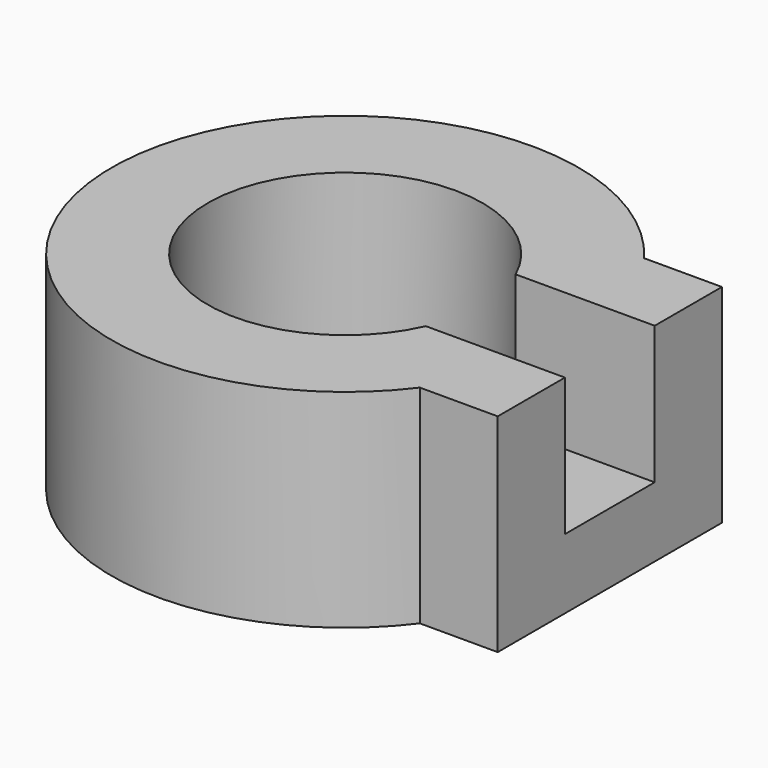
from build123d import *

# Parameters (mm, degrees)
SKETCH014_R             = 1.5
POCKET_DEPTH            = 271.834281
POLARPATTERN_COUNT      = 6
PAD_DEPTH               = 40
SKETCH016_W             = 21.623292
SKETCH016_H             = 27.433631
POCKET001_DEPTH         = 35
BODY003_PLACEMENT_ANGLE = 90


with BuildPart() as part:
    # Sketch → Revolution (revolve)
    with BuildSketch(Plane.XZ):
        Polygon((14, 0), (14, 5), (26.5, 5), (26.5, 40), (45, 40), (45, 0), align=None)
    revolve(axis=Axis((0, 0, 0), (0, 0, 1)))

    # Sketch014 → Pocket (cut, through all)
    with BuildSketch(Plane.XY.offset(5)):
        with Locations((0, 19)):
            Circle(SKETCH014_R)
    pocket = extrude(amount=-POCKET_DEPTH, mode=Mode.SUBTRACT)

    # PolarPattern: Pocket ×6 about axis
    polarpattern_axis = Axis((0, 0, 5), (0, 0, 1))
    for i in range(1, POLARPATTERN_COUNT):
        add(pocket.rotate(polarpattern_axis, i * 360 / POLARPATTERN_COUNT), mode=Mode.SUBTRACT)

    # Sketch015 (on Face12 of PolarPattern) → Pad (join)
    with BuildSketch(Plane(origin=(0, 0, 40), x_dir=(-1, 0, 0), z_dir=(0, 0, 1))):
        with BuildLine():
            Line((-27, 51), (-27, 36))
            ThreePointArc((-21.35998, 39.607465), (-24.247172, 37.908767), (-27, 36))
            Line((-21.35998, 39.607465), (21.35998, 39.607465))
            ThreePointArc((27, 36), (24.247172, 37.908767), (21.35998, 39.607465))
            Line((27, 36), (27, 51))
            Line((27, 51), (-27, 51))
        make_face()
    extrude(amount=-PAD_DEPTH)

    # Sketch016 (on Face2 of Pad) → Pocket001 (cut)
    with BuildSketch(Plane.XZ.offset(51)):
        with Locations((0, 27.158627)):
            Rectangle(SKETCH016_W, SKETCH016_H)
    extrude(amount=-POCKET001_DEPTH, mode=Mode.SUBTRACT)


with BuildPart() as part_1:
    # Body003 placement: moved
    add(part.part.moved(Location((0, 0, 22))).rotate(Axis((0, 0, 22), (0, 0, 1)), BODY003_PLACEMENT_ANGLE))


solid = part_1.part
